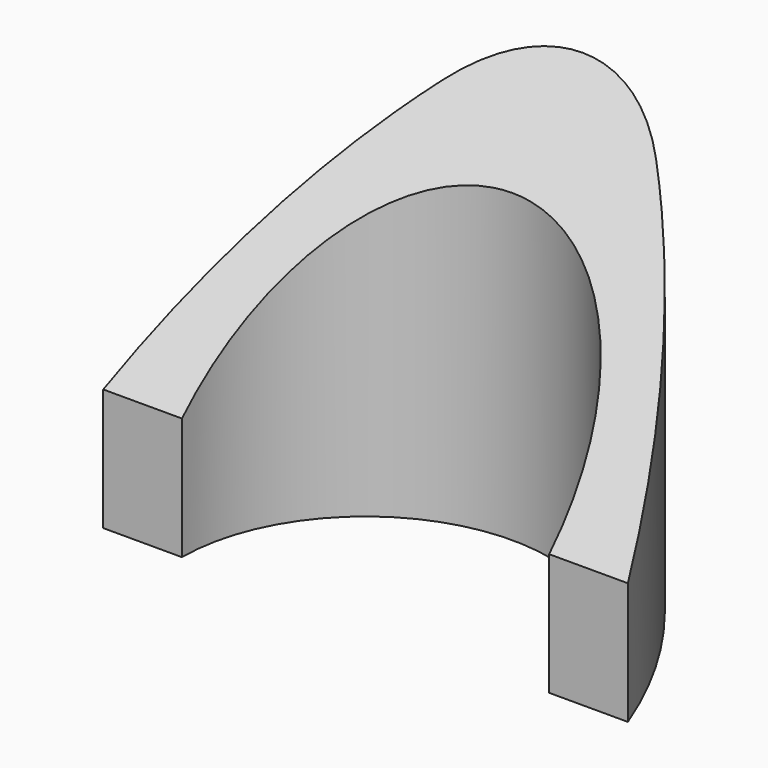
from build123d import *

# Parameters (mm, degrees)
F1_DEPTH      = 19.05
F3_DEPTH      = 12.701
F3_DEPTH_BACK = 12.701


with BuildPart() as f1:
    # F0 (on Top) → F1 (new body)
    with BuildSketch(Plane.XY):
        with BuildLine():
            ThreePointArc((5.1761450685, 11.1121373732), (0, 13.1400069893), (-5.1761450685, 11.1121373732))
            ThreePointArc((-5.1761450685, 11.1121373732), (-9.5765568331, 5.9883764488), (-12.7, 0))
            Line((-12.7, 0), (-8.89, 0))
            ThreePointArc((-8.89, 0), (0, 8.89), (8.89, 0))
            Line((8.89, 0), (12.7, 0))
            ThreePointArc((12.7, 0), (9.5765568331, 5.9883764488), (5.1761450685, 11.1121373732))
        make_face()
    extrude(amount=F1_DEPTH)

    # F2 (on Right) → F3 (cut, two sides)
    with BuildSketch(Plane.YZ) as f3_sk:
        Polygon((-13.9715867117, 8.7681770489), (0, 5.9099930107), (13.1400069893, 19.05), (26.7022754997, 29.862336272), (-16.5677890182, 33.9729929507), align=None)
    extrude(amount=-F3_DEPTH, mode=Mode.SUBTRACT)
    extrude(f3_sk.sketch, amount=F3_DEPTH_BACK, mode=Mode.SUBTRACT)


solid = f1.part
